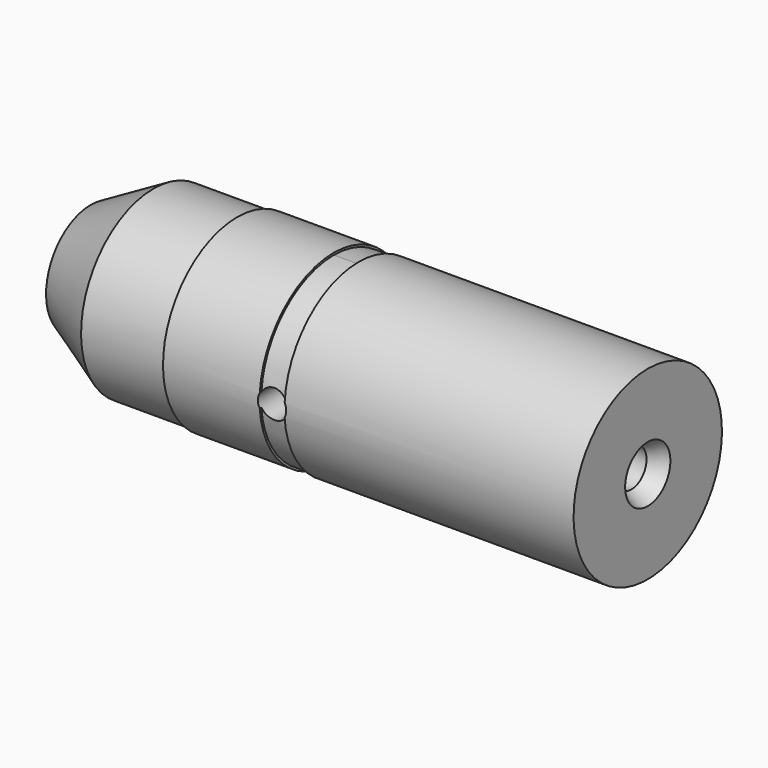
from build123d import *

# Parameters (mm, degrees)
F2_R     = 1.905
F3_DEPTH = 25.4


with BuildPart() as f1:
    # F0 (on Front) → F1 (revolve)
    with BuildSketch(Plane.XZ):
        Polygon((-35.00959, 7.5311), (-35.00959, 5.08), (-32.46959, 2.54), (37.847705, 2.54), (40.04741, 3.81), (40.04741, 12.4968), (1.08381, 12.4968), (1.08381, 12.2174), (-2.26899, 12.2174), (-2.26899, 12.4968), (-15.27379, 12.4968), (-15.27379, 12.2174), (-26.54123, 12.2174), align=None)
    revolve(axis=Axis((-1.885872, 0, 0), (1, 0, 0)))

    # F2 (on Front) → F3 (cut)
    with BuildSketch(Plane.XZ):
        with Locations((-0.59259, 0)):
            Circle(F2_R)
    extrude(amount=F3_DEPTH, mode=Mode.SUBTRACT)


solid = f1.part
